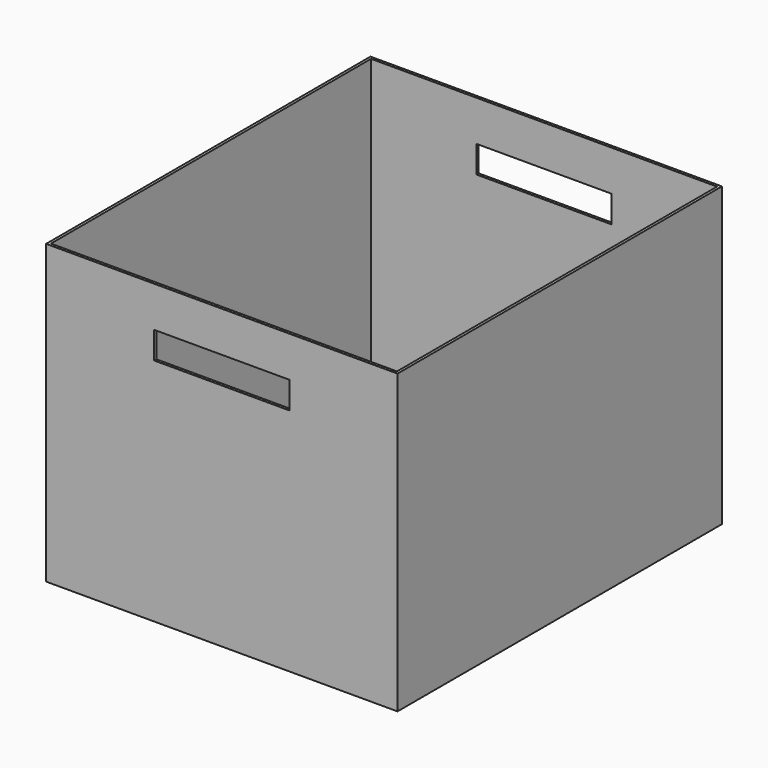
from build123d import *

# Parameters (mm, degrees)
F0_W     = 330.2
F0_H     = 381
F1_DEPTH = 279.4
F2_T     = -2.54
F3_W     = 127
F3_H     = 25.4
F4_DEPTH = 381.001


with BuildPart() as f1:
    # F0 (on Top) → F1 (new body)
    with BuildSketch(Plane.XY):
        Rectangle(F0_W, F0_H)
    extrude(amount=F1_DEPTH)

    # F2
    f2_openings = [f1.faces().sort_by_distance(p)[0] for p in [
        (0, 0, 279.4),
    ]]
    offset(amount=F2_T, openings=f2_openings)

    # F3 (on face) → F4 (cut, through all)
    with BuildSketch(Plane.XZ.offset(190.5)):
        with Locations((0, 228.6)):
            Rectangle(F3_W, F3_H)
    extrude(amount=-F4_DEPTH, mode=Mode.SUBTRACT)


solid = f1.part
